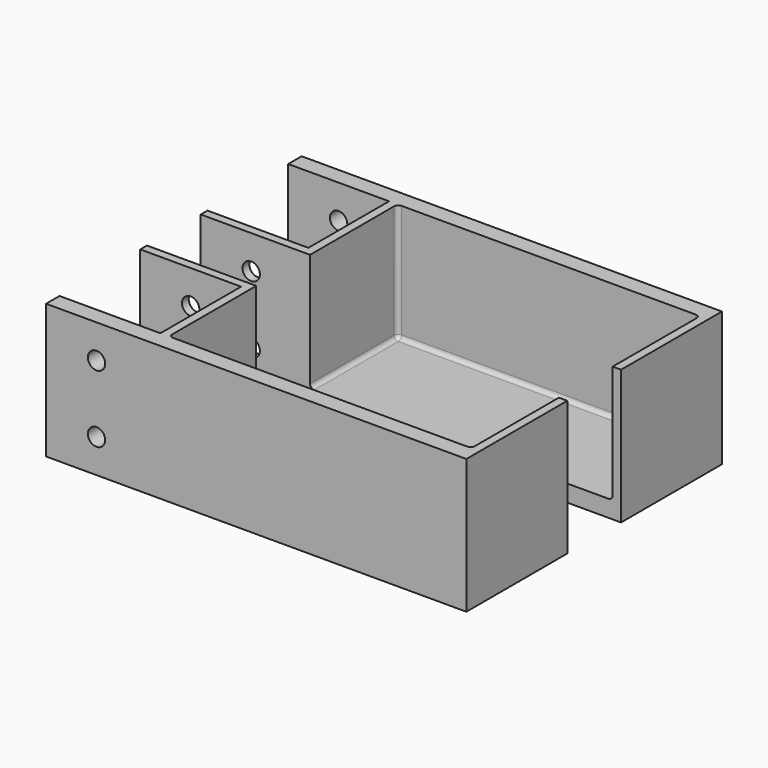
from build123d import *

# Parameters (mm, degrees)
F0_W     = 317.5
F0_H     = 101.6
F1_DEPTH = 95.25
F2_W     = 76.2
F2_H     = 76.2
F3_DEPTH = 101.601
F4_W     = 228.6
F4_H     = 82.55
F5_DEPTH = 88.9
F6_R     = 3.175
F8_D     = 13.1064


with BuildPart() as f1:
    # F0 (on Front) → F1 (new body)
    with BuildSketch(Plane.XZ):
        with Locations((158.75, 50.8)):
            Rectangle(F0_W, F0_H)
    extrude(amount=F1_DEPTH)

    # F2 (on face) → F3 (cut, through all)
    with BuildSketch(Plane.XY.offset(101.6)):
        with Locations((38.1, -50.8)):
            Rectangle(F2_W, F2_H)
    extrude(amount=-F3_DEPTH, mode=Mode.SUBTRACT)

    # F4 (on face) → F5 (cut)
    with BuildSketch(Plane.XY.offset(101.6)):
        with Locations((196.85, -53.975)):
            Rectangle(F4_W, F4_H)
    extrude(amount=-F5_DEPTH, mode=Mode.SUBTRACT)

    # F6
    f6_edges = [f1.edges().sort_by_distance(p)[0] for p in [
        (82.55, -53.975, 12.7),
        (196.85, -12.7, 12.7),
        (311.15, -53.975, 12.7),
        (311.15, -12.7, 57.15),
        (82.55, -12.7, 57.15),
    ]]
    fillet(f6_edges, radius=F6_R)

    # F8 (through all)
    with Locations(Plane.XZ.offset(95.25)):
        with Locations((38.1, 76.2), (38.1, 25.4)):
            Hole(F8_D / 2)


with BuildPart() as f10_1:
    # F10: instance of F1
    add(f1.part.mirror(Plane(origin=(95.2048569335, -120.65, 39.7279895919), x_dir=(1, 0, 0), z_dir=(0, -1, 0))))


solid = Compound([f1.part, f10_1.part])
